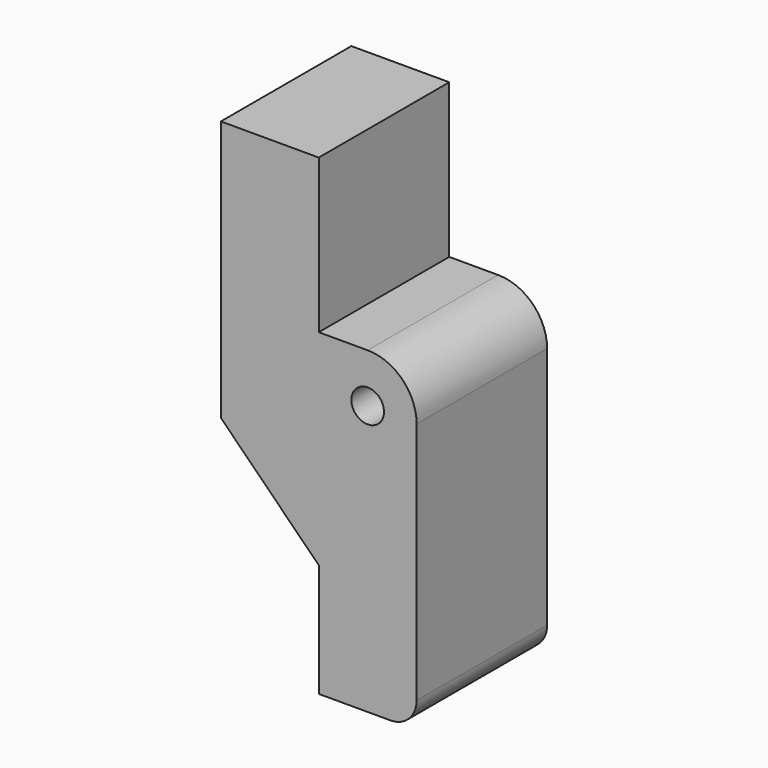
from build123d import *

# Parameters (mm, degrees)
F0_R     = 3.175
F1_DEPTH = 31.75
F2_R     = 5.08
F3_R     = 9.525


with BuildPart() as f1:
    # F0 (on Front) → F1 (new body)
    with BuildSketch(Plane.XZ):
        Polygon((-27.963307, 29.924871), (-47.013307, 29.924871), (-47.013307, 59.853119), (-66.063307, 59.853119), (-66.063307, 9.053119), (-47.013307, -9.996881), (-47.013307, -32.051129), (-27.963307, -32.051129), align=None)
        with Locations((-37.488307, 20.399871)):
            Circle(F0_R, mode=Mode.SUBTRACT)
    extrude(amount=F1_DEPTH)

    # F2
    f2_edges = [f1.edges().sort_by_distance(p)[0] for p in [
        (-27.963307, -15.875, -32.051129),
    ]]
    fillet(f2_edges, radius=F2_R)

    # F3
    f3_edges = [f1.edges().sort_by_distance(p)[0] for p in [
        (-27.963307, -15.875, 29.924871),
    ]]
    fillet(f3_edges, radius=F3_R)


solid = f1.part
